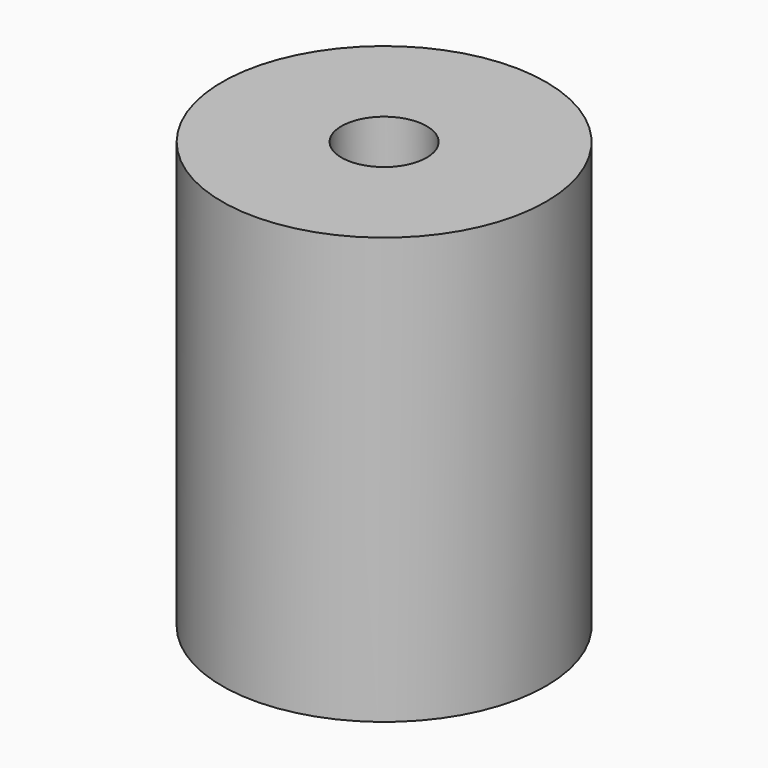
from build123d import *

# Parameters (mm, degrees)
SKETCH_R          = 9.5
PAD_DEPTH         = 12.5
SKETCH001_R       = 2.5
POCKET_DEPTH      = 12.501
POCKET_DEPTH_BACK = -12.501
SKETCH002_R       = 4
POCKET001_DEPTH   = 12.501


with BuildPart() as part:
    # Sketch → Pad (new body, symmetric)
    with BuildSketch(Plane.XY):
        Circle(SKETCH_R)
    extrude(amount=PAD_DEPTH, both=True)

    # Sketch001 → Pocket (cut, two sides)
    with BuildSketch(Plane.XY) as pocket_sk:
        Circle(SKETCH001_R)
    extrude(amount=-POCKET_DEPTH, mode=Mode.SUBTRACT)
    extrude(pocket_sk.sketch, amount=-POCKET_DEPTH_BACK, mode=Mode.SUBTRACT)

    # Sketch002 → Pocket001 (cut, through all)
    with BuildSketch(Plane.XY):
        Circle(SKETCH002_R)
    extrude(amount=-POCKET001_DEPTH, mode=Mode.SUBTRACT)


solid = part.part
